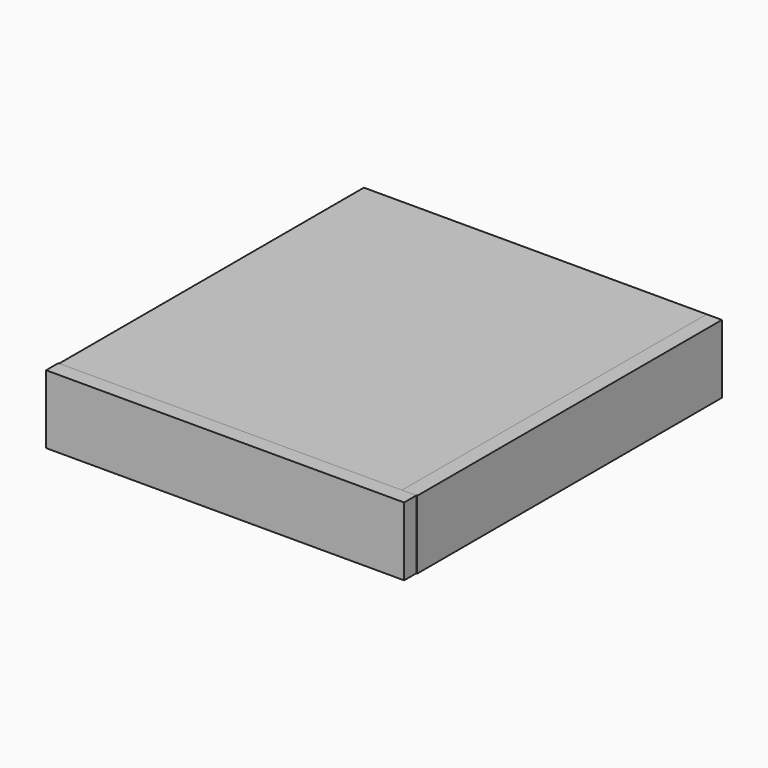
from build123d import *

# Parameters (mm, degrees)
F0_W     = 90
F0_H     = 100
F1_DEPTH = 4
F3_W     = 90
F3_H     = 100
F4_DEPTH = 4
F5_W     = 100
F5_H     = 18
F6_DEPTH = 4
F7_W     = 94
F7_H     = 18
F8_DEPTH = 4


with BuildPart() as f1:
    # F0 (on Top) → F1 (new body)
    with BuildSketch(Plane.XY):
        with Locations((-45, 50)):
            Rectangle(F0_W, F0_H)
    extrude(amount=F1_DEPTH)


with BuildPart() as f4:
    # F3 (on offset) → F4 (new body)
    with BuildSketch(Plane.XY.offset(14)):
        with Locations((-45, 50)):
            Rectangle(F3_W, F3_H)
    extrude(amount=F4_DEPTH)


with BuildPart() as f6:
    # F5 (on Right) → F6 (new body)
    with BuildSketch(Plane.YZ):
        with Locations((50, 9)):
            Rectangle(F5_W, F5_H)
    extrude(amount=F6_DEPTH)


with BuildPart() as f8:
    # F7 (on Front) → F8 (new body)
    with BuildSketch(Plane.XZ):
        with Locations((-43.2305304807, 9)):
            Rectangle(F7_W, F7_H)
    extrude(amount=F8_DEPTH)


solid = Compound([f1.part, f4.part, f6.part, f8.part])
